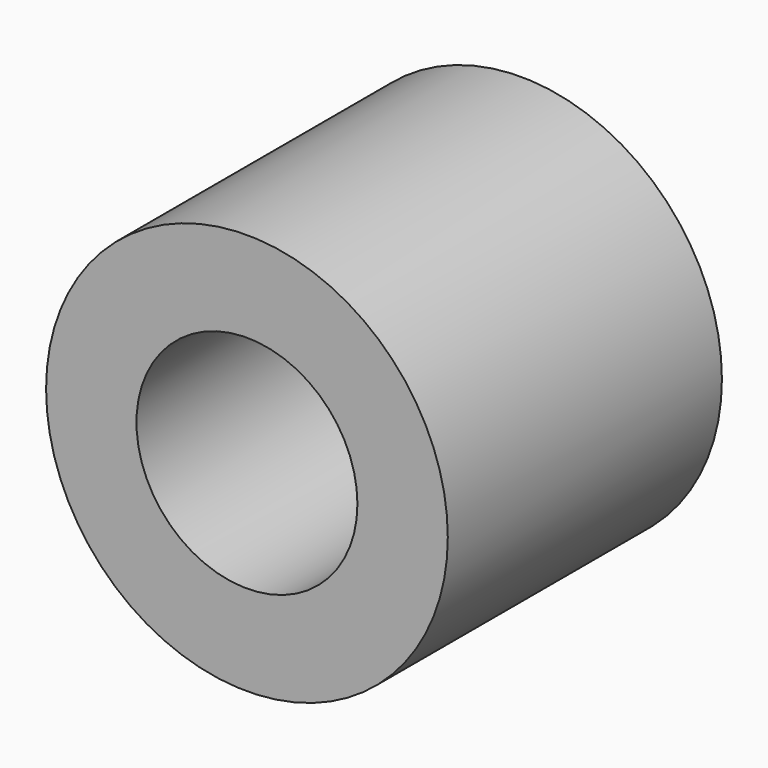
from build123d import *

# Parameters (mm, degrees)
F0_R     = 1270
F0_R_2   = 698.5
F1_DEPTH = 2166.403055


with BuildPart() as f1:
    # F0 (on Front) → F1 (new body)
    with BuildSketch(Plane.XZ):
        with Locations((698.5, 0)):
            Circle(F0_R)
        with Locations((698.5, 0)):
            Circle(F0_R_2, mode=Mode.SUBTRACT)
        with Locations((698.5, 0)):
            Circle(F0_R)
        with Locations((698.5, 0)):
            Circle(F0_R_2, mode=Mode.SUBTRACT)
    extrude(amount=-F1_DEPTH)


solid = f1.part
